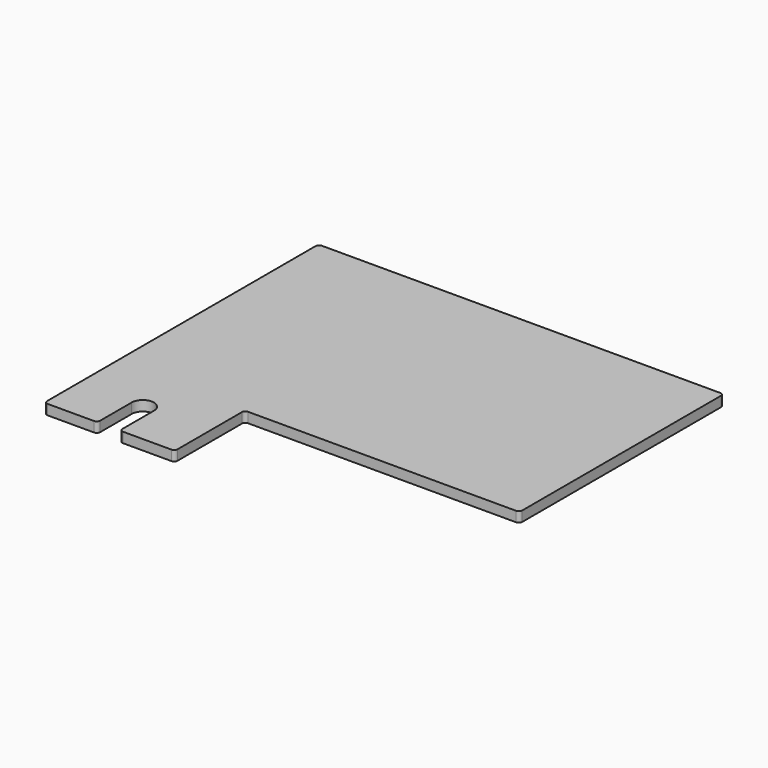
from build123d import *

# Parameters (mm, degrees)
PAD_DEPTH = 3


with BuildPart() as part:
    # Sketch → Pad (new body)
    with BuildSketch(Plane.XY):
        with BuildLine():
            Line((0, 100.6), (0, 1))
            ThreePointArc((0, 1), (0.292893, 0.292893), (1, 0))
            Line((1, 0), (14.748, 0))
            ThreePointArc((14.748, 0), (15.455107, 0.292893), (15.748, 1))
            Line((15.748, 12.7), (15.748, 1))
            ThreePointArc((22.352, 12.7), (19.05, 16.002), (15.748, 12.7))
            Line((22.352, 12.7), (22.352, 1))
            ThreePointArc((22.352, 1), (22.644893, 0.292893), (23.352, 0))
            Line((23.352, 0), (37.7002, 0))
            ThreePointArc((37.7002, 0), (38.407307, 0.292893), (38.7002, 1))
            Line((38.7002, 1), (38.7002, 24.9))
            ThreePointArc((39.7002, 25.9), (38.993093, 25.607107), (38.7002, 24.9))
            Line((39.7002, 25.9), (119.2001, 25.9))
            ThreePointArc((119.2001, 25.9), (119.907207, 26.192893), (120.2001, 26.9))
            Line((120.2001, 26.9), (120.2001, 100.6))
            ThreePointArc((120.2001, 100.6), (119.907207, 101.307107), (119.2001, 101.6))
            Line((119.2001, 101.6), (1, 101.6))
            ThreePointArc((1, 101.6), (0.292893, 101.307107), (0, 100.6))
        make_face()
    extrude(amount=PAD_DEPTH)


solid = part.part
